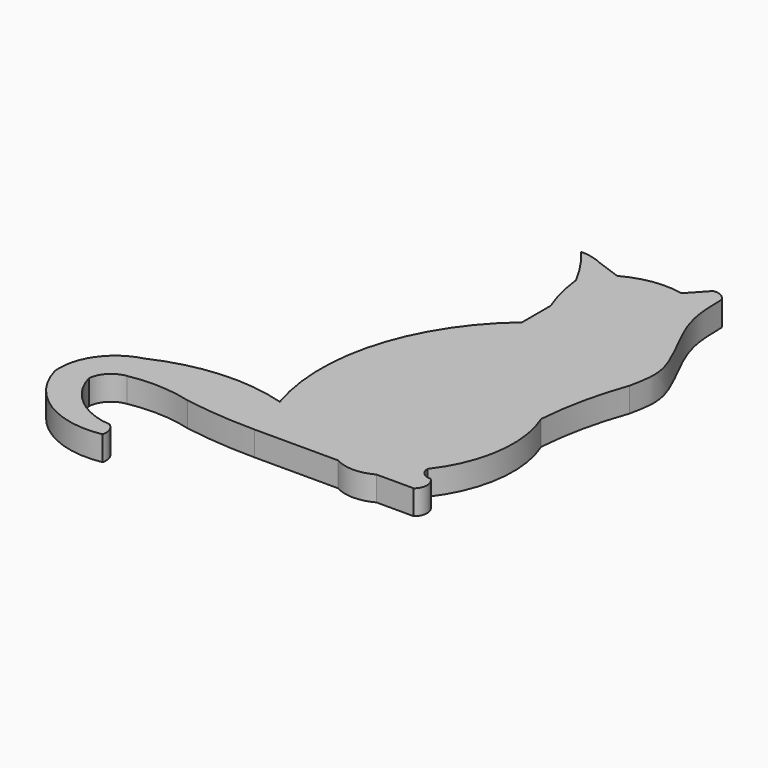
from build123d import *

# Parameters (mm, degrees)
F1_DEPTH = 7.62


with BuildPart() as f1:
    # F0 (on Top) → F1 (new body)
    with BuildSketch(Plane.XY):
        with BuildLine():
            Line((23.0912789702, 76.0052353144), (17.8084038198, 70.2963247895))
            ThreePointArc((17.8084038198, 70.2963247895), (8.6634944394, 70.6002323484), (0, 67.6564946771))
            Line((0, 67.6564946771), (-7.3704631068, 70.2963247895))
            ThreePointArc((-7.3704631068, 70.2963247895), (-10.9539259189, 71.6101956409), (-14.7409262136, 72.085686028))
            ThreePointArc((-14.7409262136, 72.085686028), (-10.213242371, 66.1021431066), (-6.3905753195, 59.6453696489))
            ThreePointArc((-6.3905753195, 59.6453696489), (-5.0838681181, 52.3672612966), (-2.8118535411, 45.3304797411))
            Line((-2.8118535411, 45.3304797411), (-2.8118535411, 41.7517572641))
            Line((-2.8118535411, 41.7517572641), (-2.8118535411, 34.2534817755))
            ThreePointArc((-2.8118535411, 34.2534817755), (-23.1818973657, 2.6551564858), (-22.5800313056, -34.9351428449))
            ThreePointArc((-22.5800313056, -34.9351428449), (-42.6842106724, -32.6463068594), (-62.2868053615, -37.6617908478))
            ThreePointArc((-62.2868053615, -37.6617908478), (-72.2180153419, -44.540137131), (-75.2383731306, -56.2370605767))
            ThreePointArc((-75.2383731306, -56.2370605767), (-64.0161548515, -71.4793290405), (-45.4291552305, -75.0554129481))
            ThreePointArc((-45.4291552305, -75.0554129481), (-45.5811738976, -72.1967918586), (-47.3380211435, -69.9366343501))
            ThreePointArc((-47.3380211435, -69.9366343501), (-59.3231701644, -65.0485814613), (-66.3964748383, -54.208599031))
            ThreePointArc((-66.3964748383, -54.208599031), (-64.3950240146, -49.7065480026), (-60.0098781288, -47.4604927003))
            ThreePointArc((-60.0098781288, -47.4604927003), (-50.2011220543, -46.7688928413), (-40.4885821044, -48.3040064573))
            ThreePointArc((-40.4885821044, -48.3040064573), (-29.4405166496, -49.6518451362), (-18.3196496218, -50.1021072268))
            Line((-18.3196496218, -50.1021072268), (7.583483588, -50.1021072268))
            ThreePointArc((7.583483588, -50.1021072268), (13.5480200406, -51.6228464718), (19.5125564933, -50.1021072268))
            Line((19.5125564933, -50.1021072268), (31.1008002609, -50.1021072268))
            ThreePointArc((31.1008002609, -50.1021072268), (32.6485228526, -46.8642171472), (31.1008002609, -43.6263270676))
            ThreePointArc((31.1008002609, -43.6263270676), (28.4590448896, -42.6406855761), (27.3516643792, -40.0476045907))
            ThreePointArc((27.3516643792, -40.0476045907), (34.956966389, -21.9021038691), (32.4641223997, -2.3858146742))
            ThreePointArc((32.4641223997, -2.3858146742), (34.4601677821, 11.2898780989), (38.2795948535, 24.5722252876))
            add(Edge.make_bspline(
                [(27.5220777839, 73.6194252968), (27.5909354629, 68.6808290163), (27.6540694888, 57.7061514867), (41.4414505958, 37.0315643617), (38.9570749828, 28.2342427003), (38.2795948535, 24.5722252876)],
                knots=[0, 0, 0, 0, 0.3235605926, 0.7188381297, 1, 1, 1, 1], degree=3))
            ThreePointArc((27.5220777839, 73.6194252968), (25.7147995787, 75.5702711821), (23.0912789702, 76.0052353144))
        make_face()
    extrude(amount=F1_DEPTH)


solid = f1.part
